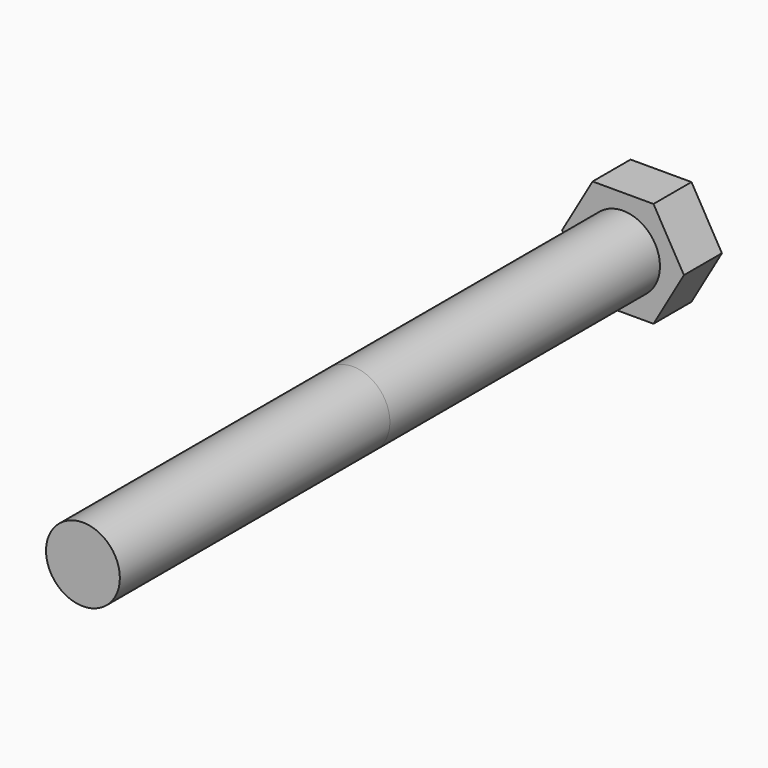
from build123d import *

# Parameters (mm, degrees)
F1_DEPTH = 7.14375
F2_R     = 5.55625
F3_DEPTH = 50.8
F4_R     = 5.55625
F5_DEPTH = 50.8


with BuildPart() as f1:
    # F0 (on Front) → F1 (new body)
    with BuildSketch(Plane.XZ):
        Polygon((4.5827177617, 7.9375), (-4.5827177617, 7.9375), (-9.1654355234, 0), (-4.5827177617, -7.9375), (4.5827177617, -7.9375), (9.1654355234, 0), align=None)
    extrude(amount=F1_DEPTH)

    # F2 (on face) → F3 (join)
    with BuildSketch(Plane.XZ.offset(7.14375)):
        Circle(F2_R)
    extrude(amount=F3_DEPTH)


with BuildPart() as f5:
    # F4 (on face) → F5 (new body)
    with BuildSketch(Plane.XZ.offset(57.94375)):
        Circle(F4_R)
    extrude(amount=F5_DEPTH)


solid = Compound([f1.part, f5.part])
